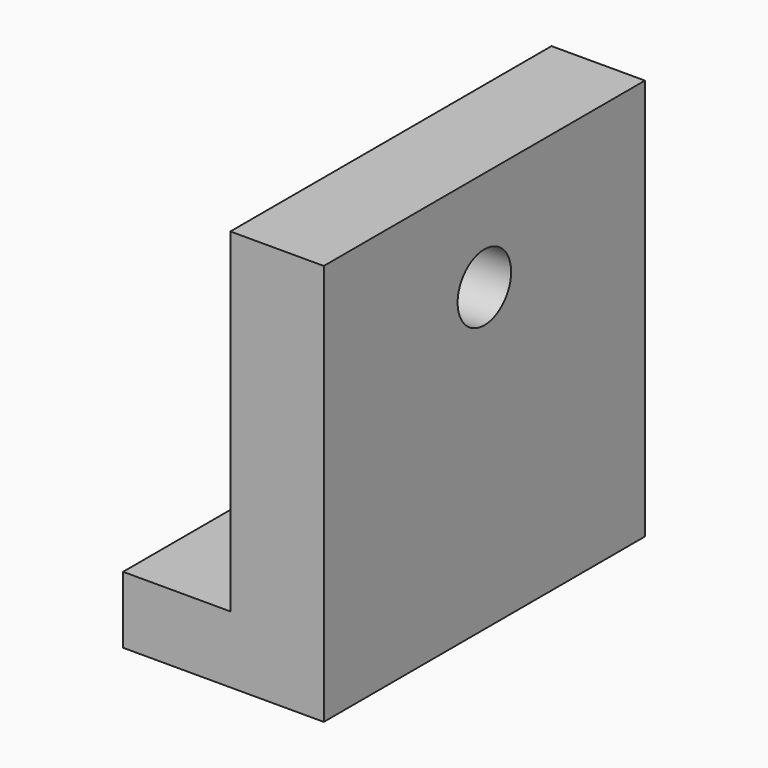
from build123d import *

# Parameters (mm, degrees)
F1_DEPTH = 76.2
F2_R     = 12.7
F3_DEPTH = 76.201


with BuildPart() as f1:
    # F0 (on Front) → F1 (new body, symmetric)
    with BuildSketch(Plane.XZ):
        Polygon((0, 0), (0, 152.4), (-35.46453, 152.39538), (-35.46453, 25.4), (-76.2, 25.4), (-76.2, 0), align=None)
        Polygon((0, 0), (0, 152.4), (-35.46453, 152.39538), (-35.46453, 25.4), (-76.2, 25.4), (-76.2, 0), align=None)
    extrude(amount=F1_DEPTH, both=True)

    # F2 (on face) → F3 (cut, through all)
    with BuildSketch(Plane.YZ):
        with Locations((0, 114.3)):
            Circle(F2_R)
    extrude(amount=-F3_DEPTH, mode=Mode.SUBTRACT)


solid = f1.part
